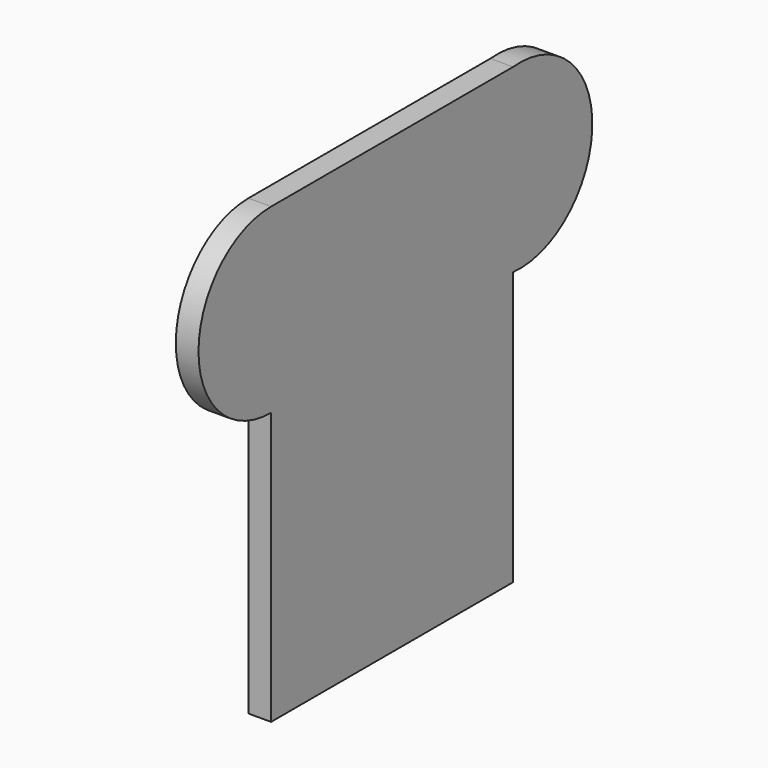
from build123d import *

# Parameters (mm, degrees)
F1_DEPTH = 3


with BuildPart() as f1:
    # F0 (on Right) → F1 (new body)
    with BuildSketch(Plane.YZ):
        with BuildLine():
            ThreePointArc((-25.900381, 34.035096), (-37.900381, 22.035096), (-25.900381, 10.035096))
            Line((-25.900381, 10.035096), (-25.900381, -25.964904))
            Line((-25.900381, -25.964904), (14.099619, -25.964904))
            Line((14.099619, -25.964904), (14.099619, 10.136678))
            ThreePointArc((14.099619, 10.136678), (27.202525, 22.085887), (14.099619, 34.035096))
            Line((14.099619, 34.035096), (-25.900381, 34.035096))
        make_face()
    extrude(amount=F1_DEPTH)


solid = f1.part
